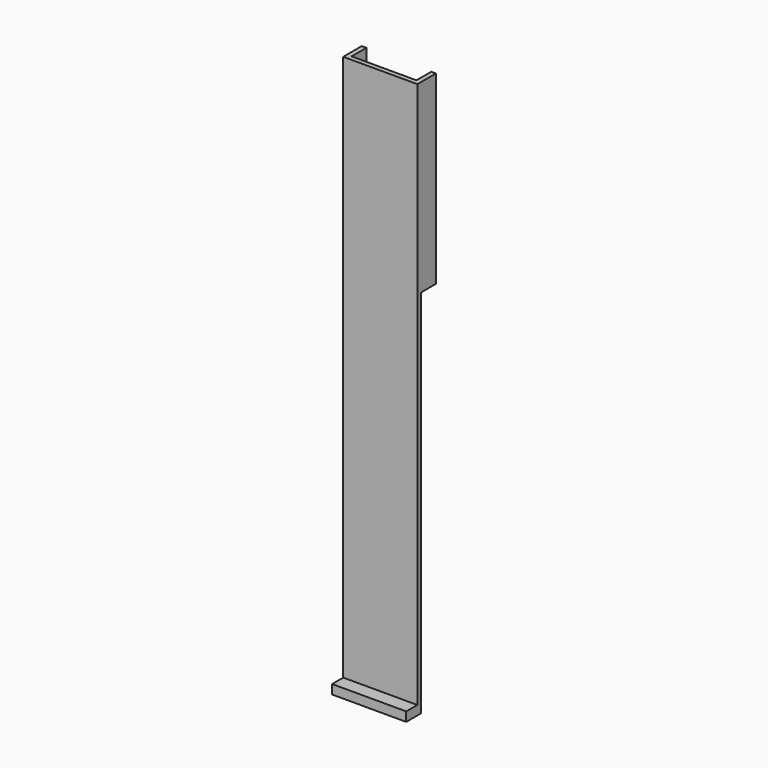
from build123d import *

# Parameters (mm, degrees)
F0_W     = 20.32
F0_H     = 152.4
F1_DEPTH = 1.27
F2_W     = 20.32
F2_H     = 2.54
F3_DEPTH = 3.81
F4_W     = 1.27
F4_H     = 50.8
F5_DEPTH = 5.08


with BuildPart() as f1:
    # F0 (on Front) → F1 (new body)
    with BuildSketch(Plane.XZ):
        with Locations((10.16, 76.2)):
            Rectangle(F0_W, F0_H)
    extrude(amount=F1_DEPTH)

    # F2 (on face) → F3 (join)
    with BuildSketch(Plane.XZ.offset(1.27)):
        with Locations((10.16, 1.27)):
            Rectangle(F2_W, F2_H)
    extrude(amount=F3_DEPTH)

    # F4 (on face) → F5 (join)
    with BuildSketch(Plane(origin=(0, 0, 0), x_dir=(-1, 0, 0), z_dir=(0, 1, 0))):
        with Locations((-0.635, 127)):
            Rectangle(F4_W, F4_H)
        with Locations((-19.685, 127)):
            Rectangle(F4_W, F4_H)
    extrude(amount=F5_DEPTH)


solid = f1.part
